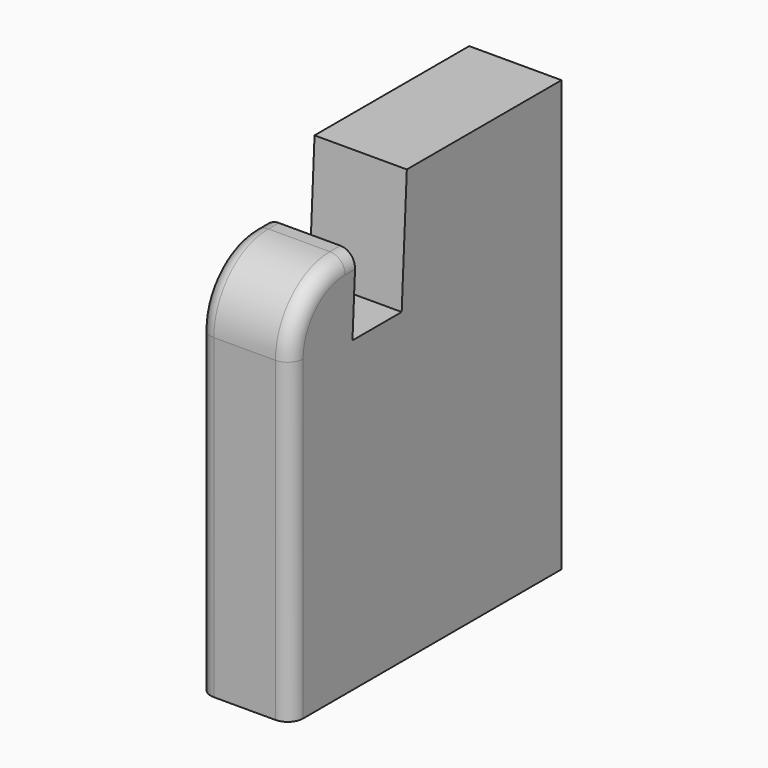
from build123d import *

# Parameters (mm, degrees)
F1_DEPTH = 30
F2_R     = 22.1
F3_R     = 5


with BuildPart() as f1:
    # F0 (on Right) → F1 (new body)
    with BuildSketch(Plane.YZ):
        Polygon((2.0934382497, 39.9451813902), (0, 0), (-20, 0), (-18.6916010939, 24.9657383689), (-45.0580844926, 24.9657383689), (-45.0580844926, -100.0548186098), (64.9419155074, -100.0548186098), (64.9419155074, 39.9451813902), align=None)
    extrude(amount=F1_DEPTH)

    # F2
    f2_edges = [f1.edges().sort_by_distance(p)[0] for p in [
        (15, -45.058084, 24.965738),
    ]]
    fillet(f2_edges, radius=F2_R)

    # F3
    f3_edges = [f1.edges().sort_by_distance(p)[0] for p in [
        (30, -38.585144, 18.492798),
        (0, -38.585144, 18.492798),
        (30, -20.824843, 24.965738),
        (0, -20.824843, 24.965738),
    ]]
    fillet(f3_edges, radius=F3_R)


solid = f1.part
